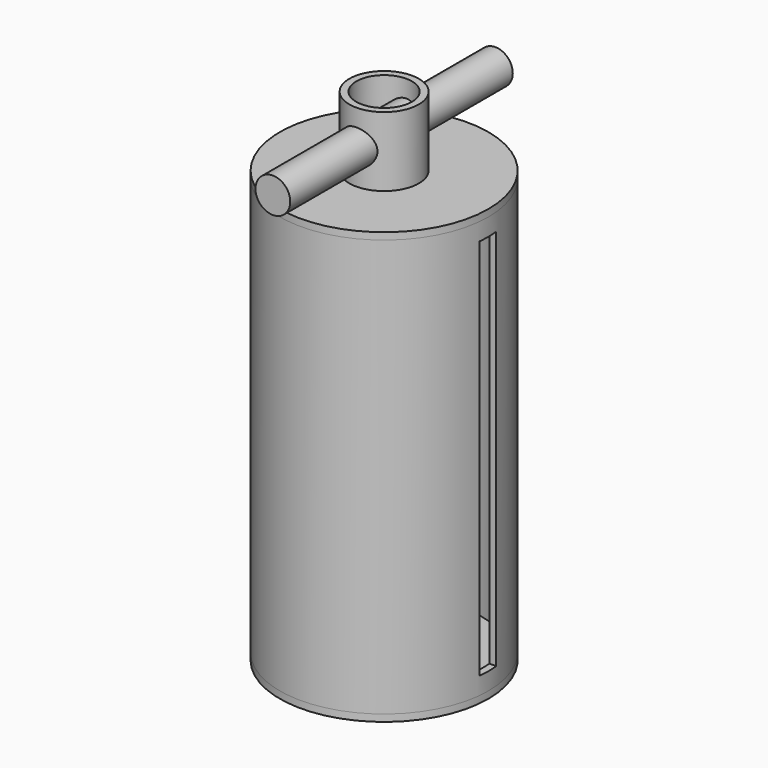
from build123d import *

# Parameters (mm, degrees)
F0_R          = 15
F0_R_2        = 14
F1_DEPTH      = 30
F2_R          = 15
F2_R_2        = 5
F3_DEPTH      = 1
F5_R          = 5
F5_R_2        = 4
F6_DEPTH      = 64.5
F6_DEPTH_BACK = 10
F7_W          = 3
F7_H          = 55
F8_DEPTH      = 25
F9_R          = 2.5
F10_DEPTH     = 20


with BuildPart() as f1:
    # F0 (on Top) → F1 (new body, symmetric)
    with BuildSketch(Plane.XY):
        Circle(F0_R)
        Circle(F0_R_2, mode=Mode.SUBTRACT)
    extrude(amount=F1_DEPTH, both=True)


with BuildPart() as f3:
    # F2 (on face) → F3 (new body)
    with BuildSketch(Plane.XY.offset(30)):
        Circle(F2_R)
        Circle(F2_R_2, mode=Mode.SUBTRACT)
    extrude(amount=F3_DEPTH)


with BuildPart() as f4_1:
    # F4: instance of F3
    add(f3.part.mirror(Plane.XY))


with BuildPart() as f6:
    # F5 (on face) → F6 (new body, two sides)
    with BuildSketch(Plane.XY.offset(31)) as f6_sk:
        Circle(F5_R)
        Circle(F5_R_2, mode=Mode.SUBTRACT)
    extrude(amount=-F6_DEPTH)
    extrude(f6_sk.sketch, amount=F6_DEPTH_BACK)


with BuildPart() as f8_tool:
    # F7 (on Right) → F8 (new body)
    with BuildSketch(Plane.YZ):
        Rectangle(F7_W, F7_H)
    extrude(amount=F8_DEPTH)


with BuildPart() as f1_1:
    add(f1.part)

    # F8: cut by f8_tool
    add(f8_tool.part, mode=Mode.SUBTRACT)


with BuildPart() as f6_1:
    add(f6.part)

    # F8: cut by f8_tool
    add(f8_tool.part, mode=Mode.SUBTRACT)


with BuildPart() as f10:
    # F9 (on Front) → F10 (new body, symmetric)
    with BuildSketch(Plane.XZ):
        with Locations((0, 36)):
            Circle(F9_R)
    extrude(amount=F10_DEPTH, both=True)


solid = Compound([f3.part, f4_1.part, f1_1.part, f6_1.part, f10.part])
